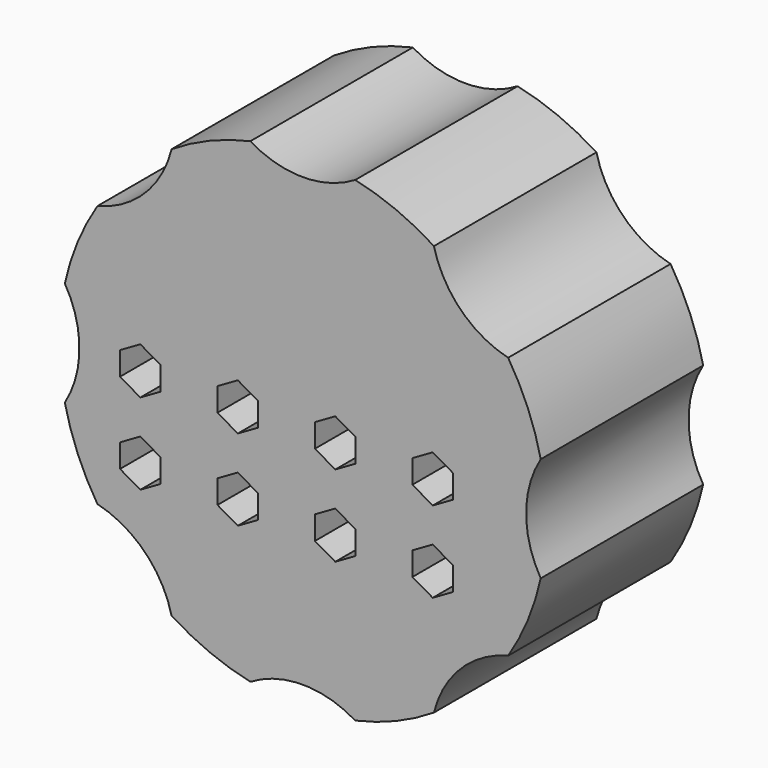
from build123d import *

# Parameters (mm, degrees)
F1_DEPTH = 25


with BuildPart() as f1:
    # F0 (on Front) → F1 (new body)
    with BuildSketch(Plane.XZ):
        with BuildLine():
            ThreePointArc((29.296875, -6.457021), (27.5, 0), (29.296875, 6.457021))
            ThreePointArc((29.296875, 6.457021), (27.716386, 11.480503), (25.281822, 16.150216))
            ThreePointArc((25.281822, 16.150216), (19.445436, 19.445436), (16.150216, 25.281822))
            ThreePointArc((16.150216, 25.281822), (11.480503, 27.716386), (6.457021, 29.296875))
            ThreePointArc((6.457021, 29.296875), (0, 27.5), (-6.457021, 29.296875))
            ThreePointArc((-6.457021, 29.296875), (-11.480503, 27.716386), (-16.150216, 25.281822))
            ThreePointArc((-16.150216, 25.281822), (-19.445436, 19.445436), (-25.281822, 16.150216))
            ThreePointArc((-25.281822, 16.150216), (-27.716386, 11.480503), (-29.296875, 6.457021))
            ThreePointArc((-29.296875, 6.457021), (-27.5, 0), (-29.296875, -6.457021))
            ThreePointArc((-29.296875, -6.457021), (-27.716386, -11.480503), (-25.281822, -16.150216))
            ThreePointArc((-25.281822, -16.150216), (-19.445436, -19.445436), (-16.150216, -25.281822))
            ThreePointArc((-16.150216, -25.281822), (-11.480503, -27.716386), (-6.457021, -29.296875))
            ThreePointArc((-6.457021, -29.296875), (0, -27.5), (6.457021, -29.296875))
            ThreePointArc((6.457021, -29.296875), (11.480503, -27.716386), (16.150216, -25.281822))
            ThreePointArc((16.150216, -25.281822), (19.445436, -19.445436), (25.281822, -16.150216))
            ThreePointArc((25.281822, -16.150216), (27.716386, -11.480503), (29.296875, -6.457021))
        make_face()
        Polygon((-17.5, -8.556624), (-17.5, -11.443376), (-20, -12.886751), (-22.5, -11.443376), (-22.5, -8.556624), (-20, -7.113249), align=None, mode=Mode.SUBTRACT)
        Polygon((-5.5, -8.556624), (-5.5, -11.443376), (-8, -12.886751), (-10.5, -11.443376), (-10.5, -8.556624), (-8, -7.113249), align=None, mode=Mode.SUBTRACT)
        Polygon((6.5, -8.556624), (6.5, -11.443376), (4, -12.886751), (1.5, -11.443376), (1.5, -8.556624), (4, -7.113249), align=None, mode=Mode.SUBTRACT)
        Polygon((18.5, -8.556624), (18.5, -11.443376), (16, -12.886751), (13.5, -11.443376), (13.5, -8.556624), (16, -7.113249), align=None, mode=Mode.SUBTRACT)
        Polygon((-17.5, 1.443376), (-17.5, -1.443376), (-20, -2.886751), (-22.5, -1.443376), (-22.5, 1.443376), (-20, 2.886751), align=None, mode=Mode.SUBTRACT)
        Polygon((-5.5, 1.443376), (-5.5, -1.443376), (-8, -2.886751), (-10.5, -1.443376), (-10.5, 1.443376), (-8, 2.886751), align=None, mode=Mode.SUBTRACT)
        Polygon((6.5, 1.443376), (6.5, -1.443376), (4, -2.886751), (1.5, -1.443376), (1.5, 1.443376), (4, 2.886751), align=None, mode=Mode.SUBTRACT)
        Polygon((18.5, 1.443376), (18.5, -1.443376), (16, -2.886751), (13.5, -1.443376), (13.5, 1.443376), (16, 2.886751), align=None, mode=Mode.SUBTRACT)
    extrude(amount=F1_DEPTH)


solid = f1.part
